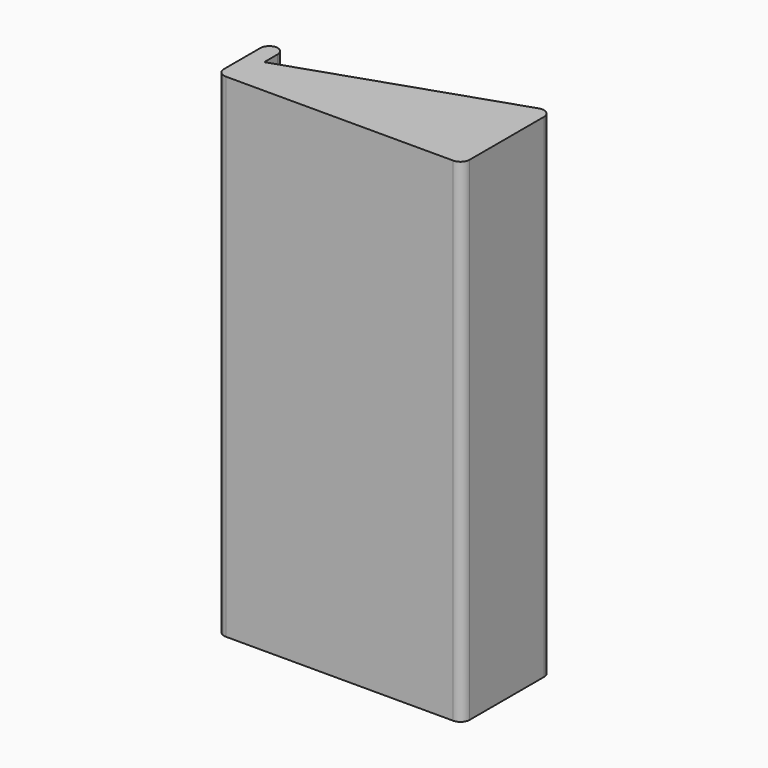
from build123d import *

# Parameters (mm, degrees)
F1_DEPTH = 135


with BuildPart() as f1:
    # F0 (on Top) → F1 (new body)
    with BuildSketch(Plane.XY):
        with BuildLine():
            Line((30.371132, 74.60952), (-28.860857, 54.664055))
            Line((-28.860857, 54.664055), (-28.860857, 59.192702))
            ThreePointArc((-28.860857, 59.192702), (-29.543952, 60.909926), (-31.219943, 61.688728))
            ThreePointArc((-31.219943, 61.688728), (-32.895934, 60.909926), (-33.57903, 59.192702))
            Line((-33.57903, 59.192702), (-33.57903, 46.806118))
            ThreePointArc((-33.57903, 46.806118), (-32.846797, 45.038351), (-31.07903, 44.306118))
            Line((-31.07903, 44.306118), (31.16895, 44.306118))
            ThreePointArc((31.16895, 44.306118), (32.936717, 45.038351), (33.66895, 46.806118))
            Line((33.66895, 46.806118), (33.66895, 72.240241))
            ThreePointArc((33.66895, 72.240241), (32.627623, 74.270579), (30.371132, 74.60952))
        make_face()
    extrude(amount=F1_DEPTH)


solid = f1.part
